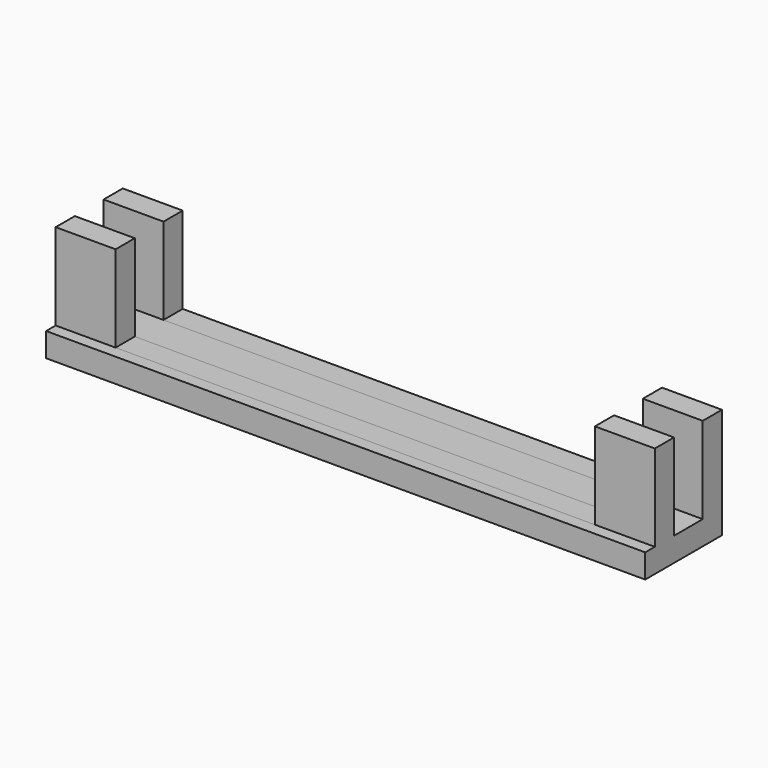
from build123d import *

# Parameters (mm, degrees)
F0_W     = 2
F0_H     = 7.224001
F1_DEPTH = 50
F2_W     = 40
F2_H     = 10.308505
F3_DEPTH = 12.5


with BuildPart() as f1:
    # F0 (on Right) → F1 (new body)
    with BuildSketch(Plane.YZ):
        Polygon((-4.891242, 2), (-4.891242, 0), (3.108758, 0), (3.108758, 2), (1.108758, 2), (-1.891242, 2), (-3.891242, 2), align=None)
        with Locations((-2.891242, 5.612)):
            Rectangle(F0_W, F0_H)
        with Locations((2.108758, 5.612)):
            Rectangle(F0_W, F0_H)
    extrude(amount=F1_DEPTH)

    # F2 (on Front) → F3 (cut, symmetric)
    with BuildSketch(Plane.XZ):
        with Locations((25, 7.154253)):
            Rectangle(F2_W, F2_H)
    extrude(amount=F3_DEPTH, both=True, mode=Mode.SUBTRACT)


with BuildPart() as f1_1:
    # F4: moved
    add(f1.part.moved(Location((-25, 0, 0))))


solid = f1_1.part
